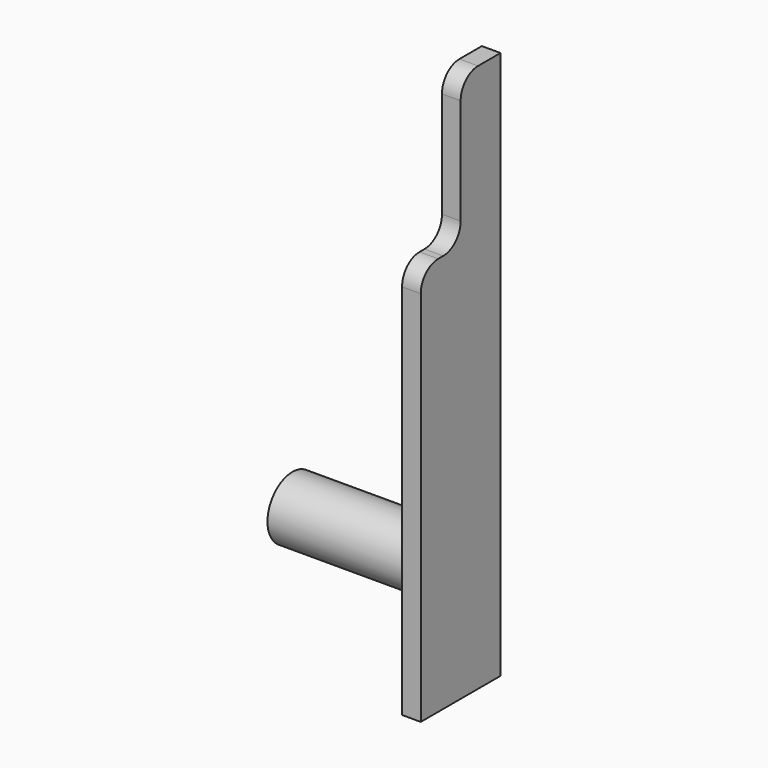
from build123d import *

# Parameters (mm, degrees)
F1_DEPTH = 9.525
F2_R     = 22.225
F3_R     = 31.75
F4_DEPTH = 152.4


with BuildPart() as f1:
    # F0 (on Right) → F1 (new body, symmetric)
    with BuildSketch(Plane.YZ):
        Polygon((101.6, -203.2), (101.6, 355.6), (50.8, 355.6), (50.8, 203.2), (0, 203.2), (0, -203.2), align=None)
    extrude(amount=F1_DEPTH, both=True)

    # F2
    f2_edges = [f1.edges().sort_by_distance(p)[0] for p in [
        (0, 50.8, 355.6),
        (0, 50.8, 203.2),
        (0, 0, 203.2),
    ]]
    fillet(f2_edges, radius=F2_R)

    # F3 (on face) → F4 (join)
    with BuildSketch(Plane(origin=(-9.525, 0, 0), x_dir=(0, -1, 0), z_dir=(-1, 0, 0))):
        with Locations((-50.8, -87.034412)):
            Circle(F3_R)
    extrude(amount=F4_DEPTH)


solid = f1.part
